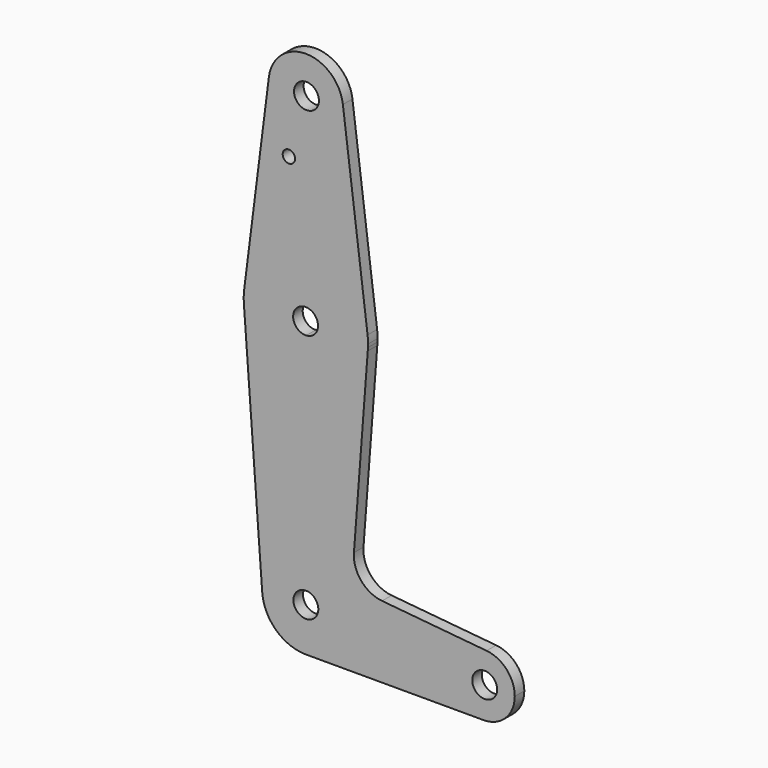
from build123d import *

# Parameters (mm, degrees)
F0_R     = 1.5875
F0_R_2   = 3.175
F1_DEPTH = 3.048


with BuildPart() as f1:
    # F0 (on Front) → F1 (new body)
    with BuildSketch(Plane.XZ):
        with BuildLine():
            ThreePointArc((7.3102929275, 57.069215628), (4.5204850183, 50.3340235372), (-2.2147070725, 47.544215628))
            Line((-2.2147070725, 47.544215628), (-2.2147070725, 22.3989884319))
            ThreePointArc((-2.2147070725, 22.3989884319), (8.2818372765, 18.4335720405), (13.5345178126, 8.5183656578))
            Line((13.5345178126, 8.5183656578), (7.2348278586, 58.2658419636))
            ThreePointArc((7.2348278586, 58.2658419636), (7.2914079389, 57.6687174136), (7.3102929275, 57.069215628))
        make_face()
        with BuildLine():
            Line((-2.2147070725, 22.3989884319), (-2.2147070725, 47.544215628))
            ThreePointArc((-2.2147070725, 47.544215628), (-9.3604572377, 50.7712890187), (-11.6642420035, 58.2658419636))
            Line((-11.6642420035, 58.2658419636), (-17.9639319576, 8.5183656578))
            ThreePointArc((-17.9639319576, 8.5183656578), (-12.7112514214, 18.4335720405), (-2.2147070725, 22.3989884319))
        make_face()
        with Locations((-6.5460577607, 42.0841127634)):
            Circle(F0_R, mode=Mode.SUBTRACT)
        with BuildLine():
            ThreePointArc((-11.6642420035, 58.2658419636), (-9.3604572377, 50.7712890187), (-2.2147070725, 47.544215628))
            ThreePointArc((-2.2147070725, 47.544215628), (4.5204850183, 50.3340235372), (7.3102929275, 57.069215628))
            ThreePointArc((7.3102929275, 57.069215628), (7.2914079389, 57.6687174136), (7.2348278586, 58.2658419636))
            ThreePointArc((7.2348278586, 58.2658419636), (-2.2147070725, 66.594215628), (-11.6642420035, 58.2658419636))
        make_face()
        with Locations((-2.0584128797, 57.1364536881)):
            Circle(F0_R_2, mode=Mode.SUBTRACT)
        with BuildLine():
            ThreePointArc((13.5345178126, 8.5183656578), (8.2818372765, 18.4335720405), (-2.2147070725, 22.3989884319))
            Line((-2.2147070725, 22.3989884319), (-2.2147070725, 9.6537737107))
            ThreePointArc((-2.2147070725, 9.6537737107), (-0.0192566722, 8.6975480096), (0.8837937295, 6.4796954393))
            ThreePointArc((0.8837937295, 6.4796954393), (0.0092186443, 4.2913923956), (-2.132691443, 3.3086549083))
            Line((-2.132691443, 3.3086549083), (-2.132691443, -9.3507997065))
            ThreePointArc((-2.132691443, -9.3507997065), (8.4566239022, -5.2292375181), (13.5784544993, 4.9141211804))
            Line((13.5784544993, 4.9141211804), (13.6405138302, 5.7317794152))
            ThreePointArc((13.6405138302, 5.7317794152), (13.6553473829, 6.1277604865), (13.6602929275, 6.5239884319))
            ThreePointArc((13.6602929275, 6.5239884319), (13.6288179464, 7.5231580745), (13.5345178126, 8.5183656578))
        make_face()
        with BuildLine():
            Line((-2.2147070725, 9.6537737107), (-2.2147070725, 22.3989884319))
            ThreePointArc((-2.2147070725, 22.3989884319), (-12.7112514214, 18.4335720405), (-17.9639319576, 8.5183656578))
            ThreePointArc((-17.9639319576, 8.5183656578), (-18.0842931558, 6.9385515062), (-18.0465791747, 5.3546079379))
            ThreePointArc((-18.0465791747, 5.3546079379), (-12.9885990445, -5.1352944267), (-2.132691443, -9.3507997065))
            Line((-2.132691443, -9.3507997065), (-2.132691443, 3.3086549083))
            ThreePointArc((-2.132691443, 3.3086549083), (-5.4659410707, 6.4386595058), (-2.2147070725, 9.6537737107))
        make_face()
        with BuildLine():
            ThreePointArc((-2.132691443, -9.3507997065), (-12.9885990445, -5.1352944267), (-18.0465791747, 5.3546079379))
            Line((-18.0465791747, 5.3546079379), (-13.3630327903, -58.0544430316))
            ThreePointArc((-13.3630327903, -58.0544430316), (-10.3772327356, -49.5931738227), (-2.132691443, -46.0526064293))
            Line((-2.132691443, -46.0526064293), (-2.132691443, -9.3507997065))
        make_face()
        with BuildLine():
            ThreePointArc((13.5784544993, 4.9141211804), (8.4566239022, -5.2292375181), (-2.132691443, -9.3507997065))
            Line((-2.132691443, -9.3507997065), (-2.132691443, -46.0526064293))
            ThreePointArc((-2.132691443, -46.0526064293), (5.5920407008, -49.2298811623), (8.9582909491, -56.8741548811))
            Line((8.9582909491, -56.8741548811), (36.0931763244, -56.8741548811))
            ThreePointArc((36.0931763244, -56.8741548811), (39.3418040246, -53.517952967), (43.9155275845, -52.5699413526))
            Line((43.9155275845, -52.5699413526), (17.2323900006, -50.0469673747))
            ThreePointArc((17.2323900006, -50.0469673747), (11.9020918829, -47.2560690917), (10.0533689663, -41.530388798))
            Line((10.0533689663, -41.530388798), (13.5784544993, 4.9141211804))
        make_face()
        with BuildLine():
            ThreePointArc((13.5784544993, 4.9141211804), (13.6147644778, 5.322549528), (13.6405138302, 5.7317794152))
            Line((13.6405138302, 5.7317794152), (13.5784544993, 4.9141211804))
        make_face()
        with BuildLine():
            ThreePointArc((-2.132691443, -46.0526064293), (-10.3772327356, -49.5931738227), (-13.3630327903, -58.0544430316))
            ThreePointArc((-13.3630327903, -58.0544430316), (-9.8225389669, -65.4214900969), (-2.2147070725, -68.4096957193))
            ThreePointArc((-2.2147070725, -68.4096957193), (5.6898240232, -65.1355317353), (8.9639880072, -57.2310006396))
            ThreePointArc((8.9639880072, -57.2310006396), (8.9625636519, -57.0525550234), (8.9582909491, -56.8741548811))
            ThreePointArc((8.9582909491, -56.8741548811), (5.5920407008, -49.2298811623), (-2.132691443, -46.0526064293))
        make_face()
        with Locations((-2.2147070725, -57.2310006396)):
            Circle(F0_R_2, mode=Mode.SUBTRACT)
        with BuildLine():
            ThreePointArc((8.9639880072, -57.2310006396), (5.6898240232, -65.1355317353), (-2.2147070725, -68.4096957193))
            Line((-2.2147070725, -68.4096957193), (43.1683447589, -68.4096957193))
            ThreePointArc((43.1683447589, -68.4096957193), (36.4021288518, -64.6221630142), (36.0931763244, -56.8741548811))
            Line((36.0931763244, -56.8741548811), (8.9582909491, -56.8741548811))
            ThreePointArc((8.9582909491, -56.8741548811), (8.9625636519, -57.0525550234), (8.9639880072, -57.2310006396))
        make_face()
        with BuildLine():
            ThreePointArc((36.0931763244, -56.8741548811), (36.4021288518, -64.6221630142), (43.1683447589, -68.4096957193))
            ThreePointArc((43.1683447589, -68.4096957193), (48.7810048346, -66.084855795), (51.1058447589, -60.4721957193))
            ThreePointArc((51.1058447589, -60.4721957193), (49.0392335301, -55.1302324766), (43.9155275845, -52.5699413526))
            ThreePointArc((43.9155275845, -52.5699413526), (39.3418040246, -53.517952967), (36.0931763244, -56.8741548811))
        make_face()
        with Locations((43.4331535689, -60.4018158402)):
            Circle(F0_R_2, mode=Mode.SUBTRACT)
    extrude(amount=F1_DEPTH)


solid = f1.part
